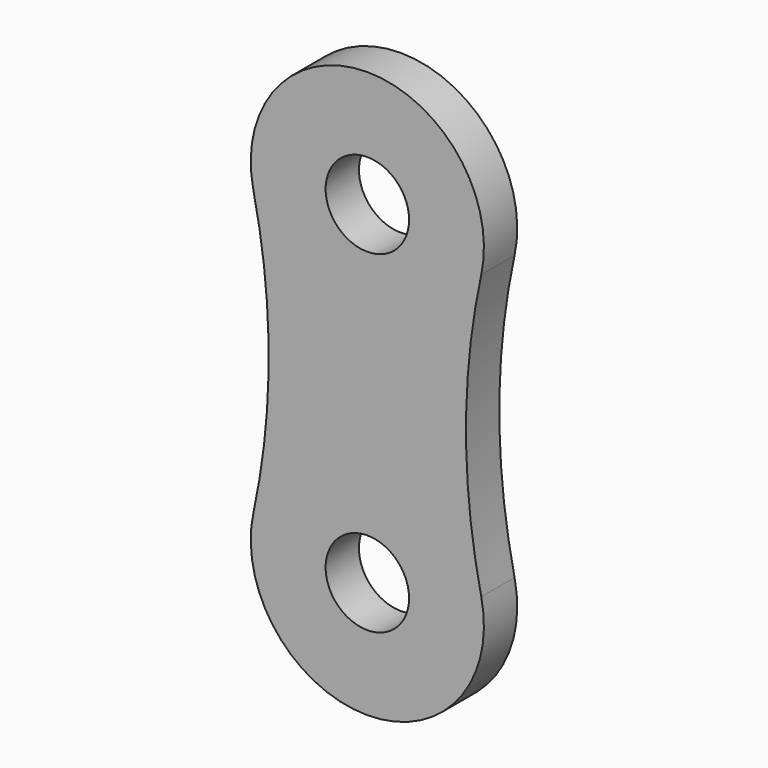
from build123d import *

# Parameters (mm, degrees)
F1_DEPTH = 2.5
F2_R     = 2.505
F3_DEPTH = 25


with BuildPart() as f1:
    # F0 (on Front) → F1 (new body)
    with BuildSketch(Plane.XZ):
        with BuildLine():
            ThreePointArc((6.839722, -8.510638), (5.92385, 0), (6.839722, 8.510638))
            ThreePointArc((6.839722, 8.510638), (0, 17), (-6.839722, 8.510638))
            ThreePointArc((-6.839722, 8.510638), (-5.92385, 0), (-6.839722, -8.510638))
            ThreePointArc((-6.839722, -8.510638), (0, -17), (6.839722, -8.510638))
        make_face()
    extrude(amount=F1_DEPTH)

    # F2 (on face) → F3 (cut)
    with BuildSketch(Plane.XZ.offset(2.5)):
        with Locations((0, 10)):
            Circle(F2_R)
        with Locations((0, -10)):
            Circle(F2_R)
    extrude(amount=-F3_DEPTH, mode=Mode.SUBTRACT)


solid = f1.part
